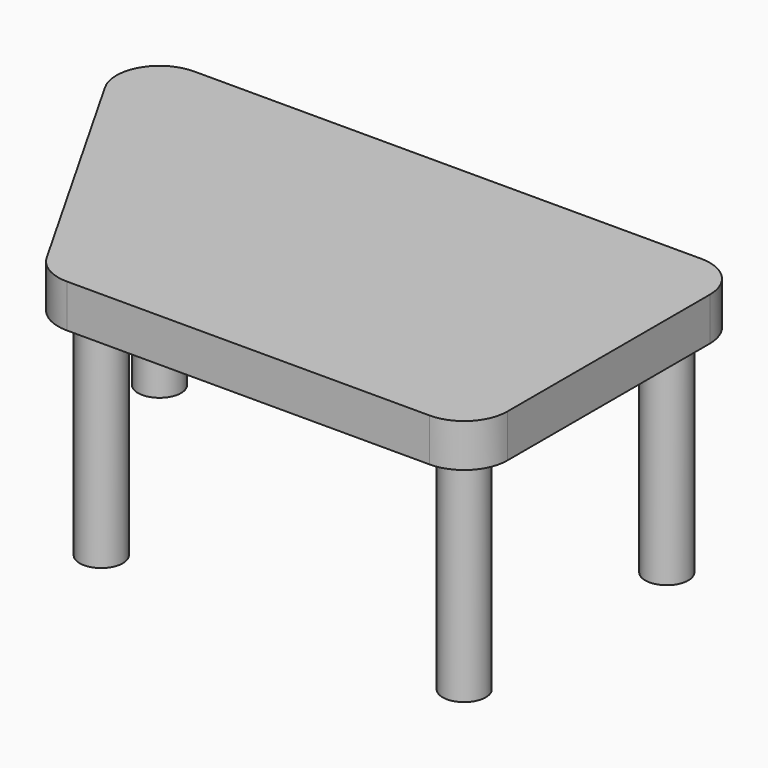
from build123d import *

# Parameters (mm, degrees)
F0_R     = 12.7
F1_DEPTH = 127
F2_DEPTH = 127
F3_DEPTH = 127
F4_DEPTH = 127
F5_DEPTH = 25.4


with BuildPart() as f1:
    # F0 (on Top) → F1 (new body)
    with BuildSketch(Plane.XY):
        with Locations((-134.45683, 83.830311)):
            Circle(F0_R)
    extrude(amount=-F1_DEPTH)


with BuildPart() as f2:
    # F0 (on Top) → F2 (new body)
    with BuildSketch(Plane.XY):
        with Locations((-49.43966, -65.375908)):
            Circle(F0_R)
    extrude(amount=-F2_DEPTH)


with BuildPart() as f3:
    # F0 (on Top) → F3 (new body)
    with BuildSketch(Plane.XY):
        with Locations((164.399237, -65.375908)):
            Circle(F0_R)
    extrude(amount=-F3_DEPTH)


with BuildPart() as f4:
    # F0 (on Top) → F4 (new body)
    with BuildSketch(Plane.XY):
        with Locations((164.399237, 83.830311)):
            Circle(F0_R)
    extrude(amount=-F4_DEPTH)


with BuildPart() as f5:
    # F0 (on Top) → F5 (new body)
    with BuildSketch(Plane.XY):
        with BuildLine():
            Line((164.399237, 109.230311), (-134.45683, 109.230311))
            ThreePointArc((-134.45683, 109.230311), (-156.417694, 96.592774), (-156.525705, 71.255545))
            Line((-156.525705, 71.255545), (-71.508535, -77.950675))
            ThreePointArc((-71.508535, -77.950675), (-62.202123, -87.336772), (-49.43966, -90.775908))
            Line((-49.43966, -90.775908), (164.399237, -90.775908))
            ThreePointArc((164.399237, -90.775908), (182.35975, -83.336421), (189.799237, -65.375908))
            Line((189.799237, -65.375908), (189.799237, 83.830311))
            ThreePointArc((189.799237, 83.830311), (182.35975, 101.790823), (164.399237, 109.230311))
        make_face()
        with Locations((-49.43966, -65.375908)):
            Circle(F0_R, mode=Mode.SUBTRACT)
        with Locations((164.399237, -65.375908)):
            Circle(F0_R, mode=Mode.SUBTRACT)
        with Locations((-134.45683, 83.830311)):
            Circle(F0_R, mode=Mode.SUBTRACT)
        with Locations((164.399237, 83.830311)):
            Circle(F0_R, mode=Mode.SUBTRACT)
        with Locations((-49.43966, -65.375908)):
            Circle(F0_R)
        with Locations((-134.45683, 83.830311)):
            Circle(F0_R)
        with Locations((164.399237, 83.830311)):
            Circle(F0_R)
        with Locations((164.399237, -65.375908)):
            Circle(F0_R)
    extrude(amount=F5_DEPTH)


solid = Compound([f1.part, f2.part, f3.part, f4.part, f5.part])
